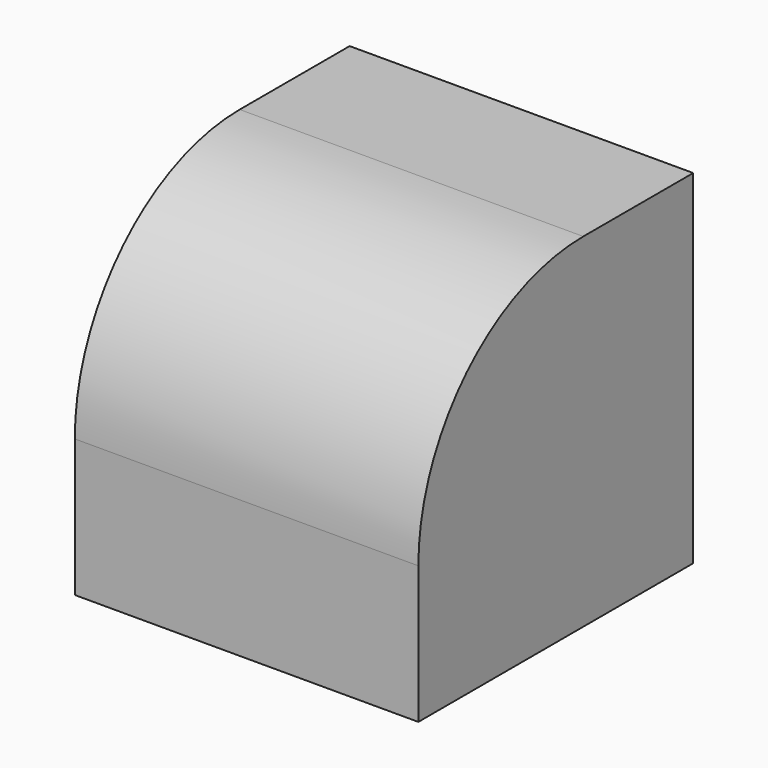
from build123d import *

# Parameters (mm, degrees)
F0_W     = 50
F0_H     = 50
F1_DEPTH = 50
F2_R     = 30


with BuildPart() as f1:
    # F0 (on Front) → F1 (new body)
    with BuildSketch(Plane.XZ):
        Rectangle(F0_W, F0_H)
    extrude(amount=F1_DEPTH)

    # F2
    f2_edges = [f1.edges().sort_by_distance(p)[0] for p in [
        (0, -50, 25),
    ]]
    fillet(f2_edges, radius=F2_R)


solid = f1.part
